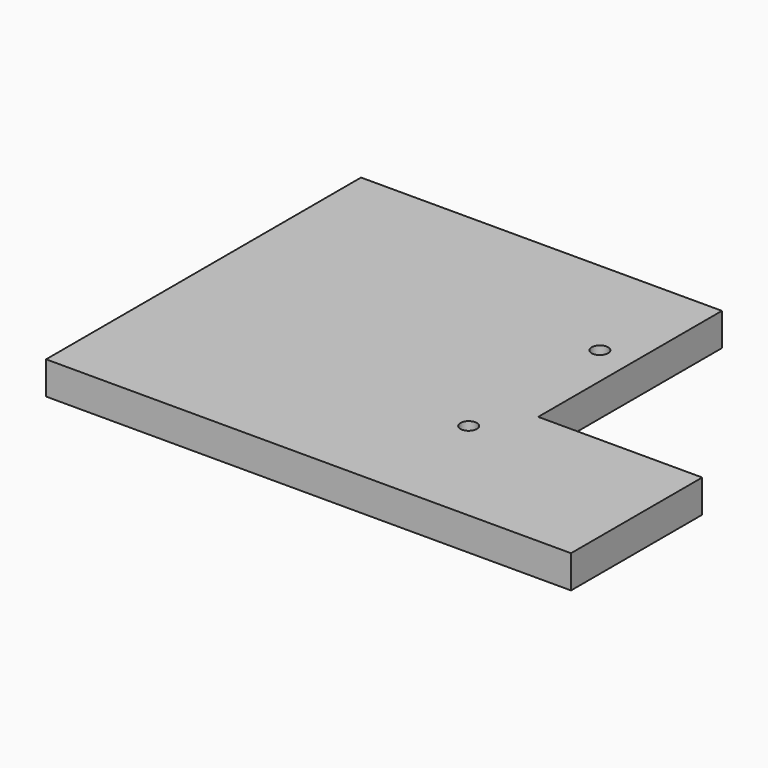
from build123d import *

# Parameters (mm, degrees)
F0_R     = 3.6119557111
F0_W     = 55
F0_H     = 35
F0_R_2   = 3.1202070356
F1_DEPTH = 5
F2_D     = 2.5


with BuildPart() as f1:
    # F0 (on Top) → F1 (new body)
    with BuildSketch(Plane.XY):
        Polygon((15, 12.5), (-40, 12.5), (-40, -12.5), (40, -12.5), (40, 12.5), align=None)
        with Locations((10, 5.5)):
            Circle(F0_R, mode=Mode.SUBTRACT)
        with Locations((-12.5, 30)):
            Rectangle(F0_W, F0_H)
        with Locations((10, 30.5)):
            Circle(F0_R_2, mode=Mode.SUBTRACT)
        with Locations((10, 30.5)):
            Circle(F0_R_2)
        with Locations((10, 5.5)):
            Circle(F0_R)
    extrude(amount=F1_DEPTH)

    # F2 (through all)
    with Locations(Plane(origin=(0, 0, 0), x_dir=(1, 0, 0), z_dir=(0, 0, -1))):
        with Locations((10, -30.5), (10, -5.5)):
            Hole(F2_D / 2)


solid = f1.part
